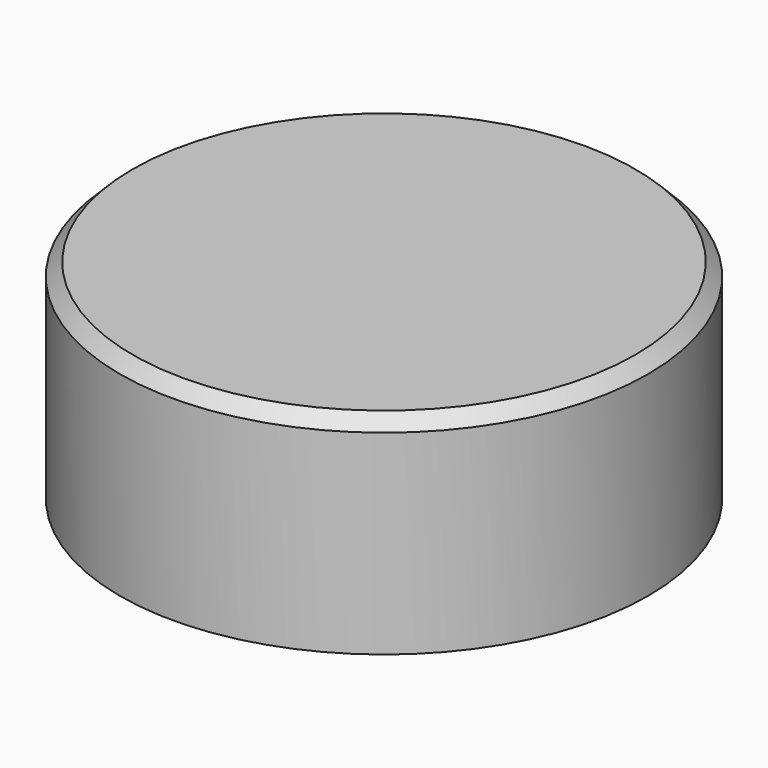
from build123d import *

# Parameters (mm, degrees)
SKETCH_R        = 33
PAD_DEPTH       = 26
POCKET_DEPTH    = 12
SKETCH002_R     = 23
SKETCH002_R_2   = 8
POCKET001_DEPTH = 12
SKETCH003_R     = 8
POCKET002_DEPTH = 2
CHAMFER_SIZE    = 1.6


with BuildPart() as part:
    # Sketch → Pad (new body)
    with BuildSketch(Plane.XY):
        Circle(SKETCH_R)
    extrude(amount=PAD_DEPTH)

    # Sketch001 → Pocket (cut)
    with BuildSketch(Plane.XY):
        with BuildLine():
            ThreePointArc((-1.5, -2.598076), (3, 0), (-1.5, 2.598076))
            Line((-1.5, 2.598076), (-1.5, -2.598076))
        make_face()
    extrude(amount=POCKET_DEPTH, mode=Mode.SUBTRACT)

    # Sketch002 (on Face2 of Pad) → Pocket001 (cut)
    with BuildSketch(Plane(origin=(0, 0, 0), x_dir=(1, 0, 0), z_dir=(0, 0, -1))):
        Circle(SKETCH002_R)
        Circle(SKETCH002_R_2, mode=Mode.SUBTRACT)
    extrude(amount=-POCKET001_DEPTH, mode=Mode.SUBTRACT)

    # Sketch003 (on Face7 of Pocket001) → Pocket002 (cut)
    with BuildSketch(Plane(origin=(0, 0, 0), x_dir=(1, 0, 0), z_dir=(0, 0, -1))):
        Circle(SKETCH003_R)
    extrude(amount=-POCKET002_DEPTH, mode=Mode.SUBTRACT)

    # Chamfer
    chamfer_edges = [part.edges().sort_by_distance(p)[0] for p in [
        (-33, 0, 26),
    ]]
    chamfer(chamfer_edges, length=CHAMFER_SIZE)


with BuildPart() as part_1:
    # Body placement: moved
    add(part.part.moved(Location((0, 0, 1.4))))


solid = part_1.part
